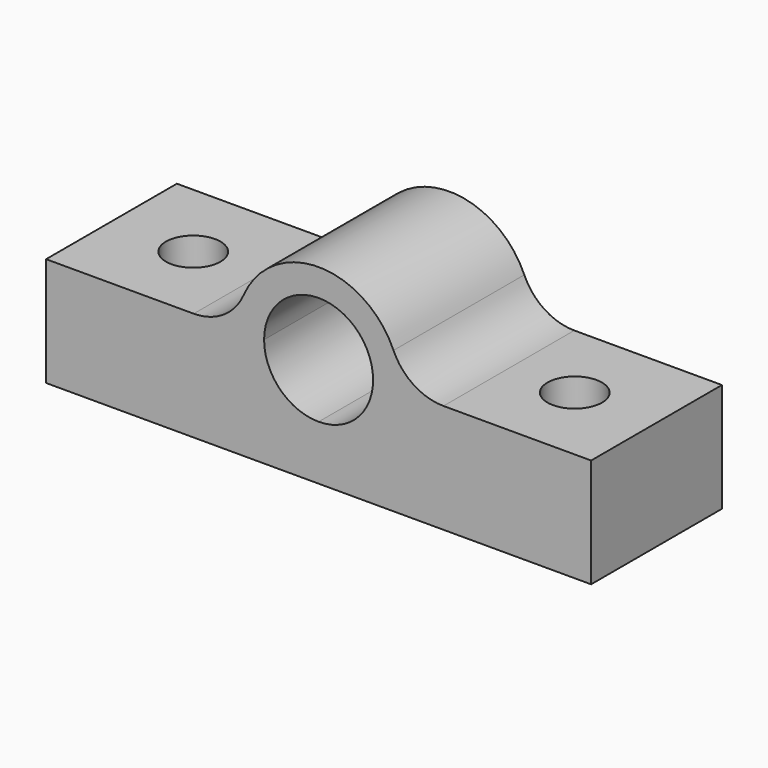
from build123d import *

# Parameters (mm, degrees)
F0_W     = 127
F0_H     = 38.1
F1_DEPTH = 25.4
F4_DEPTH = 38.1
F5_DEPTH = 38.1
F3_R     = 6.35
F6_DEPTH = 25.4


with BuildPart() as f1:
    # F0 (on Top) → F1 (new body)
    with BuildSketch(Plane.XY):
        with Locations((3.767781, -13.309208)):
            Rectangle(F0_W, F0_H)
    extrude(amount=F1_DEPTH)

    # F2 (on face) → F4 (join)
    with BuildSketch(Plane.XZ.offset(32.359208)):
        with BuildLine():
            Line((-25.331575, 25.4), (-8.932219, 25.4))
            ThreePointArc((-8.932219, 25.4), (3.767781, 38.1), (16.467781, 25.4))
            Line((16.467781, 25.4), (32.867137, 25.4))
            ThreePointArc((32.867137, 25.4), (25.91106, 27.474418), (21.227394, 33.02))
            ThreePointArc((21.227394, 33.02), (3.767781, 44.45), (-13.691832, 33.02))
            ThreePointArc((-13.691832, 33.02), (-18.375498, 27.474418), (-25.331575, 25.4))
        make_face()
    extrude(amount=-F4_DEPTH)

    # F2 (on face) → F5 (cut)
    with BuildSketch(Plane.XZ.offset(32.359208)):
        with BuildLine():
            ThreePointArc((-8.932219, 25.4), (-5.212475, 16.419744), (3.767781, 12.7))
            Line((3.767781, 12.7), (3.767781, 25.4))
            Line((3.767781, 25.4), (-8.932219, 25.4))
        make_face()
        with BuildLine():
            Line((3.767781, 25.4), (3.767781, 12.7))
            ThreePointArc((3.767781, 12.7), (12.748037, 16.419744), (16.467781, 25.4))
            Line((16.467781, 25.4), (3.767781, 25.4))
        make_face()
    extrude(amount=-F5_DEPTH, mode=Mode.SUBTRACT)

    # F3 (on face) → F6 (cut)
    with BuildSketch(Plane.XY.offset(25.4)):
        with Locations((-40.682219, -13.309208)):
            Circle(F3_R)
        with Locations((48.217781, -13.309208)):
            Circle(F3_R)
    extrude(amount=-F6_DEPTH, mode=Mode.SUBTRACT)


solid = f1.part
